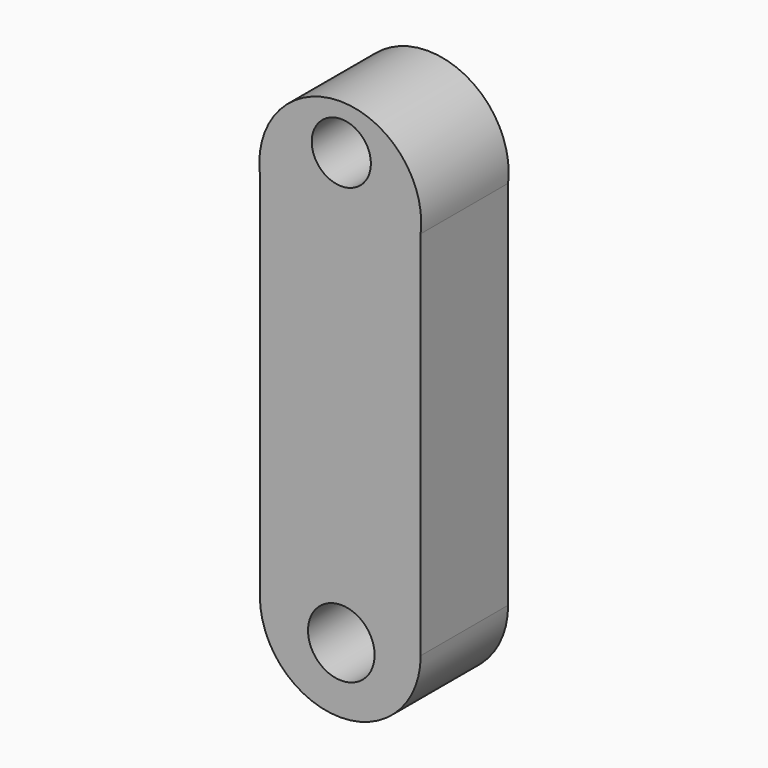
from build123d import *

# Parameters (mm, degrees)
F0_W     = 37.354069
F0_H     = 86.275846
F1_DEPTH = 25.4
F2_R     = 6.871143
F2_R_2   = 7.736162
F3_DEPTH = 25.4


with BuildPart() as f1:
    # F0 (on Front) → F1 (new body)
    with BuildSketch(Plane.XZ):
        with BuildLine():
            ThreePointArc((18.436041, 46.632335), (-0.240994, 67.685847), (-18.918028, 46.632335))
            Line((-18.918028, 46.632335), (18.436041, 46.632335))
        make_face()
        with Locations((-0.240994, 3.494412)):
            Rectangle(F0_W, F0_H)
        with BuildLine():
            Line((18.436041, -39.643511), (-18.918028, -39.643511))
            ThreePointArc((-18.918028, -39.643511), (-0.240994, -58.320546), (18.436041, -39.643511))
        make_face()
    extrude(amount=F1_DEPTH)

    # F2 (on face) → F3 (cut)
    with BuildSketch(Plane.XZ.offset(25.4)):
        with Locations((0, 57.238974)):
            Circle(F2_R)
        with Locations((0, -43.000083)):
            Circle(F2_R_2)
    extrude(amount=-F3_DEPTH, mode=Mode.SUBTRACT)


solid = f1.part
